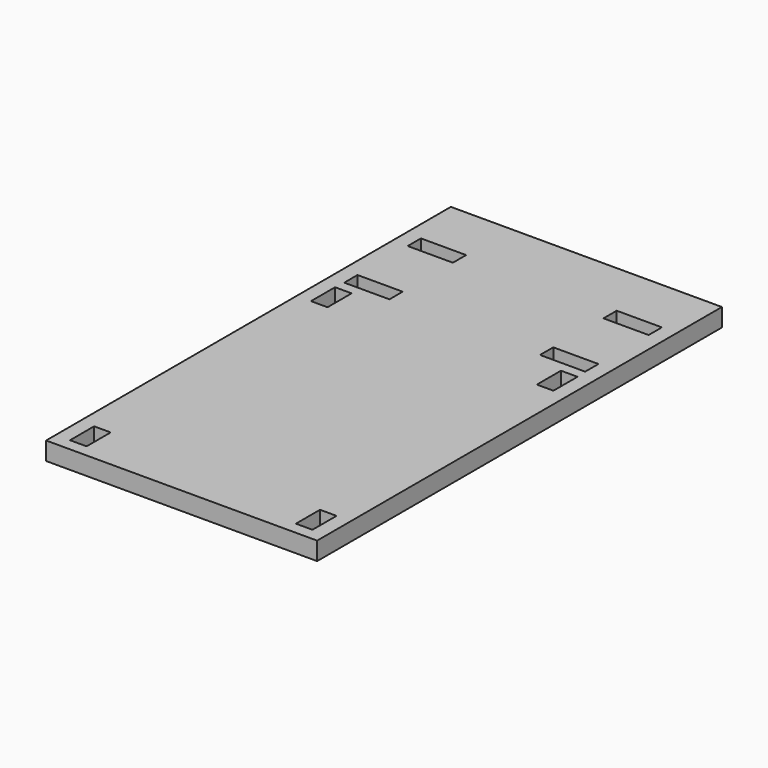
from build123d import *

# Parameters (mm, degrees)
F0_W     = 90
F0_H     = 118
F1_DEPTH = 6
F2_W     = 90
F2_H     = 50
F3_DEPTH = 6
F4_W     = 5.5
F4_H     = 10
F5_DEPTH = 6
F6_W     = 15
F6_H     = 5.5
F7_DEPTH = 6


with BuildPart() as f1:
    # F0 (on Top) → F1 (new body)
    with BuildSketch(Plane.XY):
        Rectangle(F0_W, F0_H)
    extrude(amount=F1_DEPTH)

    # F2 (on face) → F3 (join)
    with BuildSketch(Plane.XY.offset(6)):
        with Locations((0, 84)):
            Rectangle(F2_W, F2_H)
    extrude(amount=-F3_DEPTH)

    # F4 (on face) → F5 (cut)
    with BuildSketch(Plane.XY.offset(6)):
        with Locations((-37.5, 50)):
            Rectangle(F4_W, F4_H)
        with Locations((37.5, 50)):
            Rectangle(F4_W, F4_H)
        with Locations((37.5, -50)):
            Rectangle(F4_W, F4_H)
        with Locations((-37.5, -50)):
            Rectangle(F4_W, F4_H)
    extrude(amount=-F5_DEPTH, mode=Mode.SUBTRACT)

    # F6 (on face) → F7 (cut)
    with BuildSketch(Plane.XY.offset(6)):
        with Locations((-32.5, 61.25)):
            Rectangle(F6_W, F6_H)
        with Locations((32.5, 61.25)):
            Rectangle(F6_W, F6_H)
        with Locations((-32.5, 87.582247)):
            Rectangle(F6_W, F6_H)
        with Locations((32.5, 87.582247)):
            Rectangle(F6_W, F6_H)
    extrude(amount=-F7_DEPTH, mode=Mode.SUBTRACT)


solid = f1.part
